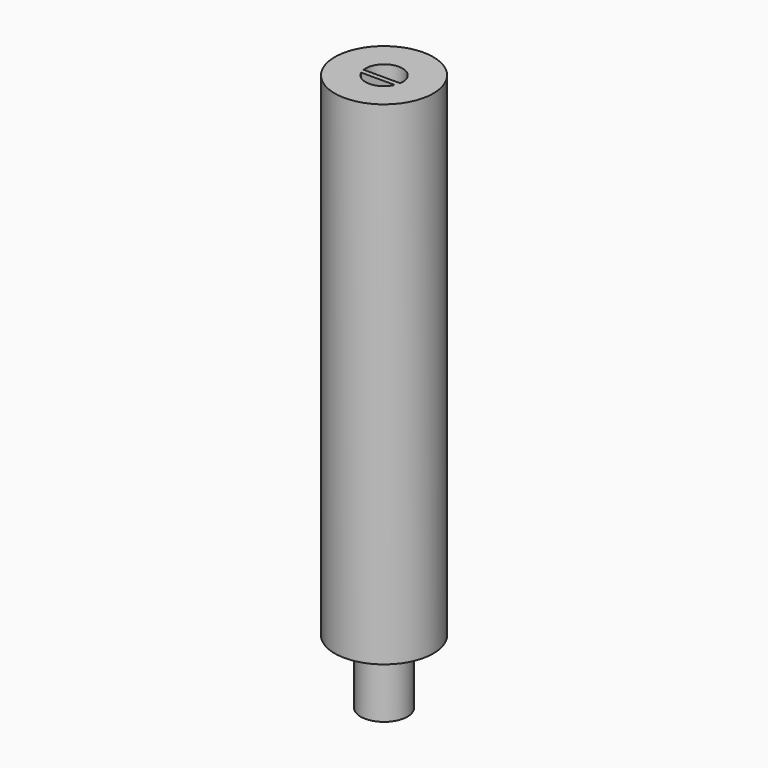
from build123d import *

# Parameters (mm, degrees)
SKETCH009_R      = 5
EXTRUDE002_DEPTH = 50
SKETCH010_R      = 2.375
EXTRUDE003_DEPTH = 6.5


with BuildPart() as extrude001:
    # Sketch009 → Extrude002 (new body)
    with BuildSketch(Plane.XY):
        with Locations((5, 5)):
            Circle(SKETCH009_R)
        with BuildLine():
            Line((3.145276, 4.725), (6.854724, 4.725))
            ThreePointArc((6.854724, 4.725), (5, 6.875), (3.145276, 4.725))
        make_face(mode=Mode.SUBTRACT)
        with BuildLine():
            Line((3.292663, 4.225), (6.707337, 4.225))
            ThreePointArc((3.292663, 4.225), (5, 3.125), (6.707337, 4.225))
        make_face(mode=Mode.SUBTRACT)
    extrude(amount=EXTRUDE002_DEPTH)


with BuildPart() as extrude002:
    # Sketch010 → Extrude003 (new body)
    with BuildSketch(Plane.XY):
        with Locations((5, 5)):
            Circle(SKETCH010_R)
        with BuildLine():
            Line((3.145276, 4.725), (6.854724, 4.725))
            ThreePointArc((6.854724, 4.725), (5, 6.875), (3.145276, 4.725))
        make_face(mode=Mode.SUBTRACT)
        with BuildLine():
            Line((3.292663, 4.225), (6.707337, 4.225))
            ThreePointArc((3.292663, 4.225), (5, 3.125), (6.707337, 4.225))
        make_face(mode=Mode.SUBTRACT)
    extrude(amount=-EXTRUDE003_DEPTH)


solid = Compound([extrude001.part, extrude002.part])
